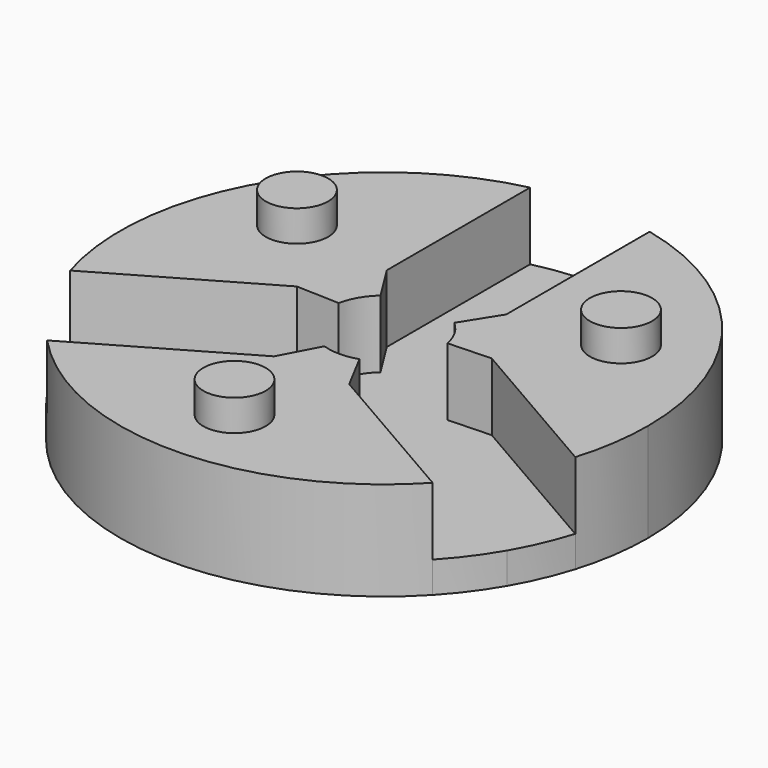
from build123d import *

# Parameters (mm, degrees)
F0_R     = 3
F1_DEPTH = 3
F2_DEPTH = 9.5
F3_DEPTH = 12.5


with BuildPart() as f1:
    # F0 (on Top) → F1 (new body)
    with BuildSketch(Plane.XY):
        with BuildLine():
            ThreePointArc((3.552816, 4), (4.633236, 2.675), (5.24051, 1.076829))
            Line((5.24051, 1.076829), (9.370191, 1.229646))
            Line((9.370191, 1.229646), (24.300992, -7.390656))
            ThreePointArc((24.300992, -7.390656), (25.123746, -3.735961), (25.4, 0))
            ThreePointArc((25.4, 0), (19.889822, 15.79731), (5.75, 24.740604))
            Line((5.75, 24.740604), (5.75, 7.5))
            Line((5.75, 7.5), (3.552816, 4))
        make_face()
        with Locations((15.588457, 9)):
            Circle(F0_R, mode=Mode.SUBTRACT)
        with Locations((15.588457, 9)):
            Circle(F0_R)
        with BuildLine():
            ThreePointArc((-3.552816, 4), (0, 5.35), (3.552816, 4))
            Line((3.552816, 4), (5.75, 7.5))
            Line((5.75, 7.5), (5.75, 24.740604))
            ThreePointArc((5.75, 24.740604), (2.893843, 25.234613), (0, 25.4))
            ThreePointArc((0, 25.4), (-2.893843, 25.234613), (-5.75, 24.740604))
            Line((-5.75, 24.740604), (-5.75, 7.5))
            Line((-5.75, 7.5), (-3.552816, 4))
        make_face()
        with BuildLine():
            ThreePointArc((-5.24051, 1.076829), (-4.633236, 2.675), (-3.552816, 4))
            Line((-3.552816, 4), (-5.75, 7.5))
            Line((-5.75, 7.5), (-5.75, 24.740604))
            ThreePointArc((-5.75, 24.740604), (-21.997045, 12.7), (-24.300992, -7.390656))
            Line((-24.300992, -7.390656), (-9.370191, 1.229646))
            Line((-9.370191, 1.229646), (-5.24051, 1.076829))
        make_face()
        with Locations((-15.588457, 9)):
            Circle(F0_R, mode=Mode.SUBTRACT)
        with Locations((-15.588457, 9)):
            Circle(F0_R)
        with BuildLine():
            Line((-3.620191, -8.729646), (-1.687694, -5.076829))
            ThreePointArc((-1.687694, -5.076829), (-4.633236, -2.675), (-5.24051, 1.076829))
            Line((-5.24051, 1.076829), (-9.370191, 1.229646))
            Line((-9.370191, 1.229646), (-24.300992, -7.390656))
            ThreePointArc((-24.300992, -7.390656), (-23.300737, -10.111165), (-21.997045, -12.7))
            ThreePointArc((-21.997045, -12.7), (-20.406894, -15.123448), (-18.550992, -17.349948))
            Line((-18.550992, -17.349948), (-3.620191, -8.729646))
        make_face()
        with BuildLine():
            ThreePointArc((1.687694, -5.076829), (4.338874, -3.129963), (5.35, 0))
            ThreePointArc((5.35, 0), (5.322557, 0.54119), (5.24051, 1.076829))
            ThreePointArc((5.24051, 1.076829), (4.633236, 2.675), (3.552816, 4))
            ThreePointArc((3.552816, 4), (0, 5.35), (-3.552816, 4))
            ThreePointArc((-3.552816, 4), (-4.633236, 2.675), (-5.24051, 1.076829))
            ThreePointArc((-5.24051, 1.076829), (-4.633236, -2.675), (-1.687694, -5.076829))
            ThreePointArc((-1.687694, -5.076829), (0, -5.35), (1.687694, -5.076829))
        make_face()
        with BuildLine():
            ThreePointArc((5.24051, 1.076829), (5.322557, 0.54119), (5.35, 0))
            ThreePointArc((5.35, 0), (4.338874, -3.129963), (1.687694, -5.076829))
            Line((1.687694, -5.076829), (3.620191, -8.729646))
            Line((3.620191, -8.729646), (18.550992, -17.349948))
            ThreePointArc((18.550992, -17.349948), (20.406894, -15.123448), (21.997045, -12.7))
            ThreePointArc((21.997045, -12.7), (23.300737, -10.111165), (24.300992, -7.390656))
            Line((24.300992, -7.390656), (9.370191, 1.229646))
            Line((9.370191, 1.229646), (5.24051, 1.076829))
        make_face()
        with BuildLine():
            Line((3.620191, -8.729646), (1.687694, -5.076829))
            ThreePointArc((1.687694, -5.076829), (0, -5.35), (-1.687694, -5.076829))
            Line((-1.687694, -5.076829), (-3.620191, -8.729646))
            Line((-3.620191, -8.729646), (-18.550992, -17.349948))
            ThreePointArc((-18.550992, -17.349948), (0, -25.4), (18.550992, -17.349948))
            Line((18.550992, -17.349948), (3.620191, -8.729646))
        make_face()
        with Locations((0, -18)):
            Circle(F0_R, mode=Mode.SUBTRACT)
        with Locations((0, -18)):
            Circle(F0_R)
    extrude(amount=F1_DEPTH)

    # F0 (on Top) → F2 (join)
    with BuildSketch(Plane.XY):
        with BuildLine():
            ThreePointArc((-5.24051, 1.076829), (-4.633236, 2.675), (-3.552816, 4))
            Line((-3.552816, 4), (-5.75, 7.5))
            Line((-5.75, 7.5), (-5.75, 24.740604))
            ThreePointArc((-5.75, 24.740604), (-21.997045, 12.7), (-24.300992, -7.390656))
            Line((-24.300992, -7.390656), (-9.370191, 1.229646))
            Line((-9.370191, 1.229646), (-5.24051, 1.076829))
        make_face()
        with Locations((-15.588457, 9)):
            Circle(F0_R, mode=Mode.SUBTRACT)
        with Locations((-15.588457, 9)):
            Circle(F0_R)
        with Locations((15.588457, 9)):
            Circle(F0_R)
        with BuildLine():
            ThreePointArc((3.552816, 4), (4.633236, 2.675), (5.24051, 1.076829))
            Line((5.24051, 1.076829), (9.370191, 1.229646))
            Line((9.370191, 1.229646), (24.300992, -7.390656))
            ThreePointArc((24.300992, -7.390656), (25.123746, -3.735961), (25.4, 0))
            ThreePointArc((25.4, 0), (19.889822, 15.79731), (5.75, 24.740604))
            Line((5.75, 24.740604), (5.75, 7.5))
            Line((5.75, 7.5), (3.552816, 4))
        make_face()
        with Locations((15.588457, 9)):
            Circle(F0_R, mode=Mode.SUBTRACT)
        with BuildLine():
            Line((3.620191, -8.729646), (1.687694, -5.076829))
            ThreePointArc((1.687694, -5.076829), (0, -5.35), (-1.687694, -5.076829))
            Line((-1.687694, -5.076829), (-3.620191, -8.729646))
            Line((-3.620191, -8.729646), (-18.550992, -17.349948))
            ThreePointArc((-18.550992, -17.349948), (0, -25.4), (18.550992, -17.349948))
            Line((18.550992, -17.349948), (3.620191, -8.729646))
        make_face()
        with Locations((0, -18)):
            Circle(F0_R, mode=Mode.SUBTRACT)
        with Locations((0, -18)):
            Circle(F0_R)
    extrude(amount=F2_DEPTH)

    # F0 (on Top) → F3 (join)
    with BuildSketch(Plane.XY):
        with Locations((-15.588457, 9)):
            Circle(F0_R)
        with Locations((0, -18)):
            Circle(F0_R)
        with Locations((15.588457, 9)):
            Circle(F0_R)
    extrude(amount=F3_DEPTH)


solid = f1.part
